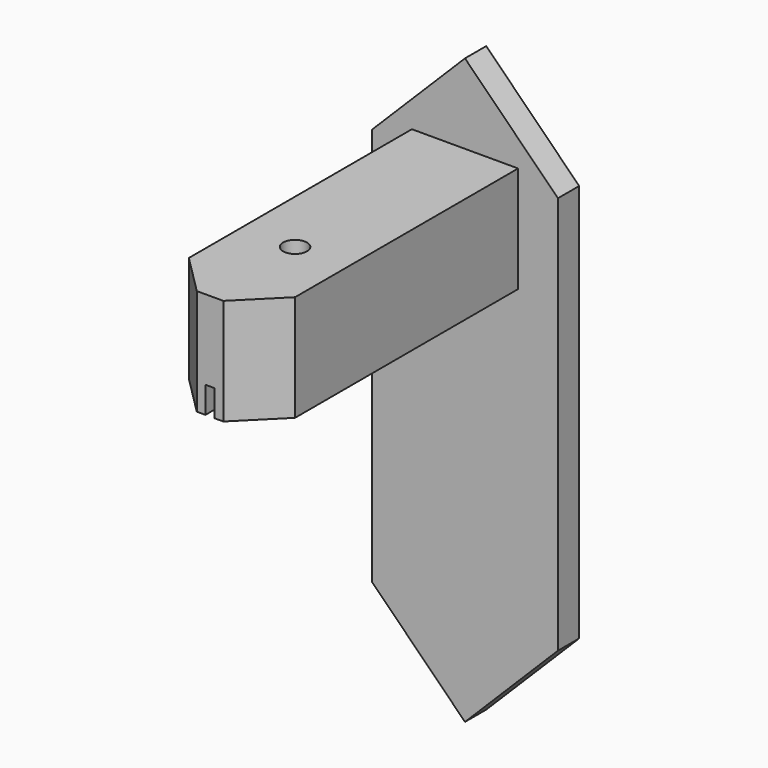
from build123d import *

# Parameters (mm, degrees)
PAD005_DEPTH            = 1
SKETCH006_W             = 4
SKETCH006_H             = 4
PAD006_DEPTH            = 12
SKETCH007_R             = 0.45
POCKET_DEPTH            = 10
SKETCH021_W             = 0.35
SKETCH021_H             = 1
POCKET004_DEPTH         = 3
CHAMFER_SIZE            = 1.5
BODY003_PLACEMENT_ANGLE = 90


with BuildPart() as part:
    # Sketch005 → Pad005 (new body)
    with BuildSketch(Plane.XY):
        Polygon((0, -11), (3.5, -7.5), (3.5, 7.5), (0, 11), (-3.5, 7.5), (-3.5, -7.5), align=None)
    extrude(amount=PAD005_DEPTH)

    # Sketch006 (on Face8 of Pad005) → Pad006 (join)
    with BuildSketch(Plane.XY.offset(1)):
        with Locations((0, 6)):
            Rectangle(SKETCH006_W, SKETCH006_H)
    extrude(amount=PAD006_DEPTH)

    # Sketch007 (on Face12 of Pad006) → Pocket (cut)
    with BuildSketch(Plane(origin=(0, 8, 0), x_dir=(-1, 0, 0), z_dir=(0, 1, 0))):
        with Locations((0, 9)):
            Circle(SKETCH007_R)
    extrude(amount=-POCKET_DEPTH, mode=Mode.SUBTRACT)

    # Sketch021 (on Face13 of Pocket) → Pocket004 (cut)
    with BuildSketch(Plane.XY.offset(13)):
        with Locations((0, 4.5)):
            Rectangle(SKETCH021_W, SKETCH021_H)
    extrude(amount=-POCKET004_DEPTH, mode=Mode.SUBTRACT)

    # Chamfer
    chamfer_edges = [part.edges().sort_by_distance(p)[0] for p in [
        (2, 6, 13),
        (-2, 6, 13),
    ]]
    chamfer(chamfer_edges, length=CHAMFER_SIZE)


with BuildPart() as part_1:
    # Body003 placement: moved
    add(part.part.moved(Location((0, 9, 2))).rotate(Axis((0, 9, 2), (1, 0, 0)), BODY003_PLACEMENT_ANGLE))


solid = part_1.part
